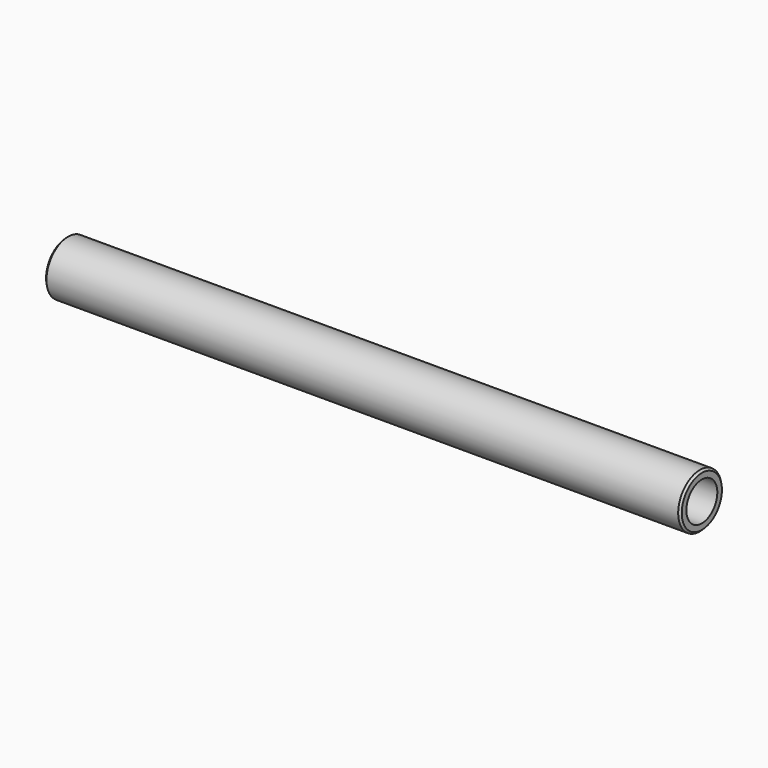
from build123d import *

# Parameters (mm, degrees)
F0_W    = 133.35
F0_H    = 3.175
F0_W_2  = 12.7
F0_W_3  = 114.3
F2_SIZE = 0.8128
F3_SIZE = 0.8128


with BuildPart() as f1:
    # F0 (on Front) → F1 (revolve)
    with BuildSketch(Plane.XZ):
        with Locations((-71.7826074213, 0.0330159035)):
            Rectangle(F0_W, F0_H)
        with Locations((115.5423925787, 0.0330159035)):
            Rectangle(F0_W_2, F0_H)
        with Locations((52.0423925787, 0.0330159035)):
            Rectangle(F0_W_3, F0_H)
    revolve(axis=Axis((-8.2826074213, 0, -9.4792840965), (1, 0, 0)))

    # F2
    f2_edges = [f1.edges().sort_by_distance(p)[0] for p in [
        (121.892393, 0, -20.579084),
    ]]
    chamfer(f2_edges, length=F2_SIZE)

    # F3
    f3_edges = [f1.edges().sort_by_distance(p)[0] for p in [
        (-138.457607, 0, -20.579084),
    ]]
    chamfer(f3_edges, length=F3_SIZE)


solid = f1.part
